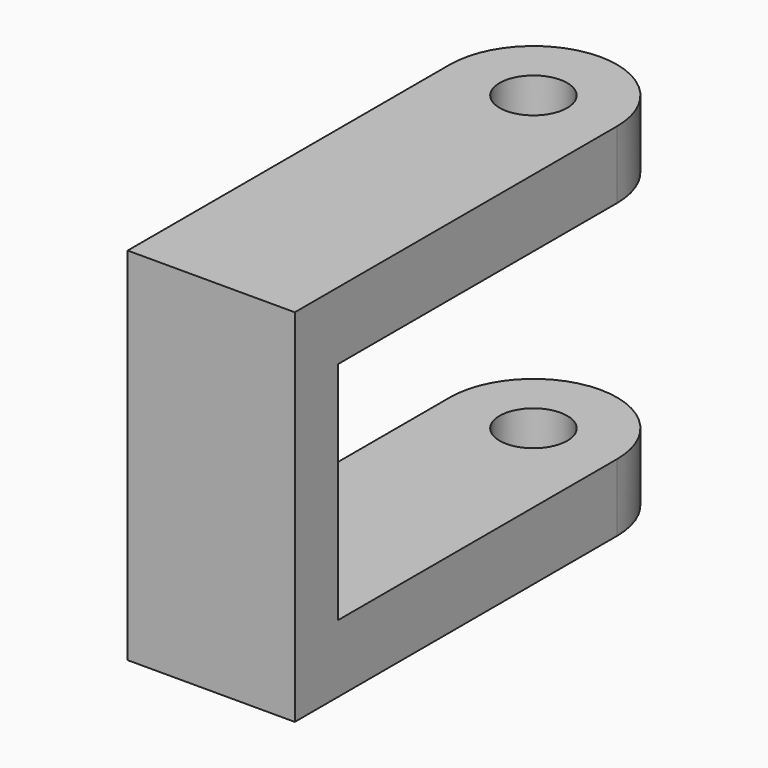
from build123d import *

# Parameters (mm, degrees)
F0_R     = 4.7625
F1_DEPTH = 50.8
F2_W     = 18.094934
F2_H     = 31.75
F3_DEPTH = 23.542328


with BuildPart() as f1:
    # F0 (on Top) → F1 (new body)
    with BuildSketch(Plane.XY):
        with BuildLine():
            Line((-11.770664, 0), (-11.770664, -56.734564))
            Line((-11.770664, -56.734564), (11.770664, -56.734564))
            Line((11.770664, -56.734564), (11.770664, 0))
            ThreePointArc((11.770664, 0), (0, 11.770664), (-11.770664, 0))
        make_face()
        Circle(F0_R, mode=Mode.SUBTRACT)
    extrude(amount=F1_DEPTH)

    # F2 (on face) → F3 (cut, through all)
    with BuildSketch(Plane.YZ.offset(11.770664)):
        Polygon((-35.73535, 41.275), (-49.146869, 41.275), (-49.146869, 9.525), (-35.73535, 9.525), (0, 9.525), (0, 41.275), align=None)
        with Locations((9.047467, 25.4)):
            Rectangle(F2_W, F2_H)
    extrude(amount=-F3_DEPTH, mode=Mode.SUBTRACT)


solid = f1.part
